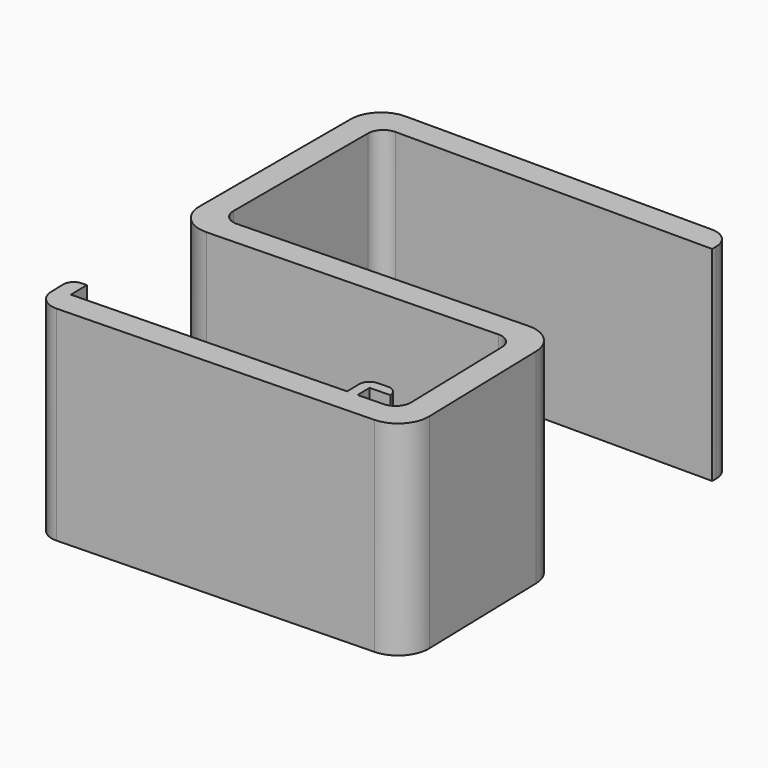
from build123d import *

# Parameters (mm, degrees)
F1_DEPTH = 40


with BuildPart() as f1:
    # F0 (on Top) → F1 (new body)
    with BuildSketch(Plane.XY):
        with BuildLine():
            Line((66, 0), (6, 0))
            ThreePointArc((6, 0), (1.757359, -1.757359), (0, -6))
            Line((0, -6), (0, -42.973471))
            ThreePointArc((0, -42.973471), (1.813257, -47.271283), (6.157062, -48.971415))
            Line((6.157062, -48.971415), (62.133626, -47.505617))
            ThreePointArc((62.133626, -47.505617), (64.277221, -48.328466), (65.211129, -50.426058))
            Line((65.211129, -50.426058), (65.813199, -73.418177))
            ThreePointArc((65.813199, -73.418177), (64.99035, -75.561771), (62.892758, -76.49568))
            Line((62.892758, -76.49568), (57.894471, -76.626564))
            Line((57.894471, -76.626564), (57.81594, -73.627593))
            Line((57.81594, -73.627593), (61.814569, -73.522885))
            ThreePointArc((61.814569, -73.522885), (61.191964, -72.12449), (59.762901, -71.575924))
            Line((59.762901, -71.575924), (57.763586, -71.628278))
            ThreePointArc((57.763586, -71.628278), (56.365191, -72.250883), (55.816626, -73.679946))
            Line((55.816626, -73.679946), (55.895156, -76.678918))
            Line((55.895156, -76.678918), (2.913318, -78.066297))
            Line((2.913318, -78.066297), (2.80861, -74.067667))
            Line((2.80861, -74.067667), (1.808953, -74.093844))
            ThreePointArc((1.808953, -74.093844), (0.410558, -74.71645), (-0.138008, -76.145513))
            Line((-0.138008, -76.145513), (-0.059477, -79.144485))
            ThreePointArc((-0.059477, -79.144485), (1.185734, -81.941274), (4.04386, -83.038406))
            Line((4.04386, -83.038406), (65.022957, -81.441612))
            ThreePointArc((65.022957, -81.441612), (69.218142, -79.573796), (70.863839, -75.286607))
            Line((70.863839, -75.286607), (70.157062, -48.295859))
            ThreePointArc((70.157062, -48.295859), (68.289245, -44.100675), (64.002056, -42.454977))
            Line((64.002056, -42.454977), (8.078531, -43.919386))
            ThreePointArc((8.078531, -43.919386), (5.906629, -43.06932), (5, -40.920414))
            Line((5, -40.920414), (5, -8))
            ThreePointArc((5, -8), (5.87868, -5.87868), (8, -5))
            Line((8, -5), (70, -5))
            Line((70, -5), (70, -4))
            ThreePointArc((70, -4), (68.828427, -1.171573), (66, 0))
        make_face()
    extrude(amount=F1_DEPTH)


solid = f1.part
